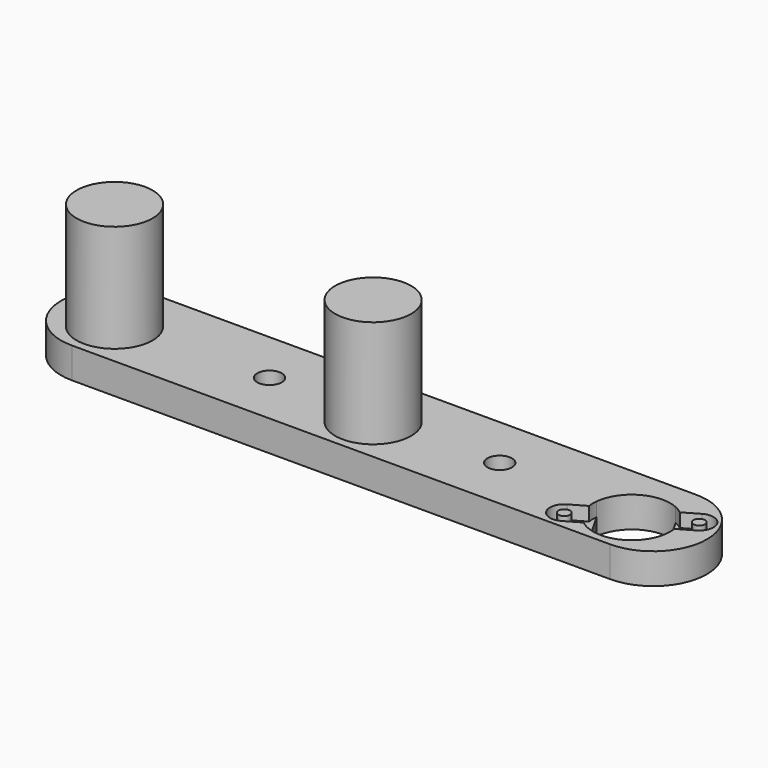
from build123d import *

# Parameters (mm, degrees)
CYLINDER018_R        = 1.6
CYLINDER018_DEPTH    = 10
CYLINDER017_R        = 1.6
CYLINDER017_DEPTH    = 10
PAD_DEPTH            = 18
SKETCH002_R          = 0.75
PAD001_DEPTH         = 1.8
CYLINDER_R           = 5.025
CYLINDER_DEPTH       = 1.8
BODY_PLACEMENT_ANGLE = 60
CYLINDER006_R        = 4.95
CYLINDER006_DEPTH    = 14
EXTRUDE_DEPTH        = 4
CYLINDER005_R        = 4.95
CYLINDER005_DEPTH    = 14


with BuildPart() as cylinder018:
    # Cylinder018 → Cylinder018 (new body)
    with BuildSketch(Plane(origin=(-30, 0, -3), x_dir=(1, 0, 0), z_dir=(0, 0, 1))):
        Circle(CYLINDER018_R)
    extrude(amount=CYLINDER018_DEPTH)


with BuildPart() as fusion021:
    # Cylinder017 → Cylinder017 (new body)
    with BuildSketch(Plane.XY.offset(-3)):
        Circle(CYLINDER017_R)
    extrude(amount=CYLINDER017_DEPTH)

    # Fusion019: union Cylinder018
    add(cylinder018.part)


with BuildPart() as fusion021_1:
    # Fusion019 placement: moved
    add(fusion021.part.moved(Location((-18, 1, 0))))


with BuildPart() as motorbody:
    # Sketch001 → Pad (new body)
    with BuildSketch(Plane.XY):
        with BuildLine():
            ThreePointArc((-2.940238, 4.075), (-5.025, 0), (-2.940238, -4.075))
            Line((-2.940238, -4.075), (2.940238, -4.075))
            ThreePointArc((2.940238, -4.075), (5.025, 0), (2.940238, 4.075))
            Line((-2.940238, 4.075), (2.940238, 4.075))
        make_face()
    extrude(amount=PAD_DEPTH)

    # Sketch002 → Pad001 (join)
    with BuildSketch(Plane.XY):
        with BuildLine():
            ThreePointArc((1.85, 6.95), (0, 8.8), (-1.85, 6.95))
            Line((-1.85, 6.95), (-1.85, -6.950003))
            ThreePointArc((-1.85, -6.950003), (2e-06, -8.8), (1.85, -6.949999))
            Line((1.85, 6.95), (1.85, -6.949999))
        make_face()
        with Locations((0, 6.95)):
            Circle(SKETCH002_R, mode=Mode.SUBTRACT)
        with Locations((0, -6.95)):
            Circle(SKETCH002_R, mode=Mode.SUBTRACT)
    extrude(amount=PAD001_DEPTH)

    # Cylinder → Cylinder (join)
    with BuildSketch(Plane.XY):
        Circle(CYLINDER_R)
    extrude(amount=CYLINDER_DEPTH)


with BuildPart() as motorbody_1:
    # Body placement: moved
    add(motorbody.part.rotate(Axis((0, 0, 0), (0, 0, -1)), BODY_PLACEMENT_ANGLE))


with BuildPart() as cylinder006:
    # Cylinder006 → Cylinder006 (new body)
    with BuildSketch(Plane(origin=(-33.693581, 0, -14), x_dir=(1, 0, 0), z_dir=(0, 0, 1))):
        Circle(CYLINDER006_R)
    extrude(amount=CYLINDER006_DEPTH)


with BuildPart() as extrude_body:
    # Sketch009 → Extrude (new body)
    with BuildSketch(Plane.XY):
        with BuildLine():
            ThreePointArc((-68.158607, 8), (-75.158607, 1), (-68.158607, -6))
            Line((-68.158607, -6), (2, -6))
            ThreePointArc((2, -6), (9, 1), (2, 8))
            Line((-68.158607, 8), (2, 8))
        make_face()
    extrude(amount=EXTRUDE_DEPTH)


with BuildPart() as rightdriveskid:
    # Cylinder005 → Cylinder005 (new body)
    with BuildSketch(Plane(origin=(-67.3872, 0, -14), x_dir=(1, 0, 0), z_dir=(0, 0, 1))):
        Circle(CYLINDER005_R)
    extrude(amount=CYLINDER005_DEPTH)

    # Fusion005: union Cylinder006, Extrude body
    add(cylinder006.part)
    add(extrude_body.part)

    # Cut002: cut MotorBody
    add(motorbody_1.part, mode=Mode.SUBTRACT)

    # Cut011: cut Fusion021
    add(fusion021_1.part, mode=Mode.SUBTRACT)


with BuildPart() as leftdriveskid_printable:
    # Part__Mirroring003: instance of RightDriveSkid
    add(rightdriveskid.part.mirror(Plane(origin=(0, 0, 0), x_dir=(0, 1, 0), z_dir=(0, 0, 1))))


with BuildPart() as leftdriveskid_printable_1:
    # Clone004 placement: moved
    add(leftdriveskid_printable.part.moved(Location((0, -56, 4))))


solid = leftdriveskid_printable_1.part
